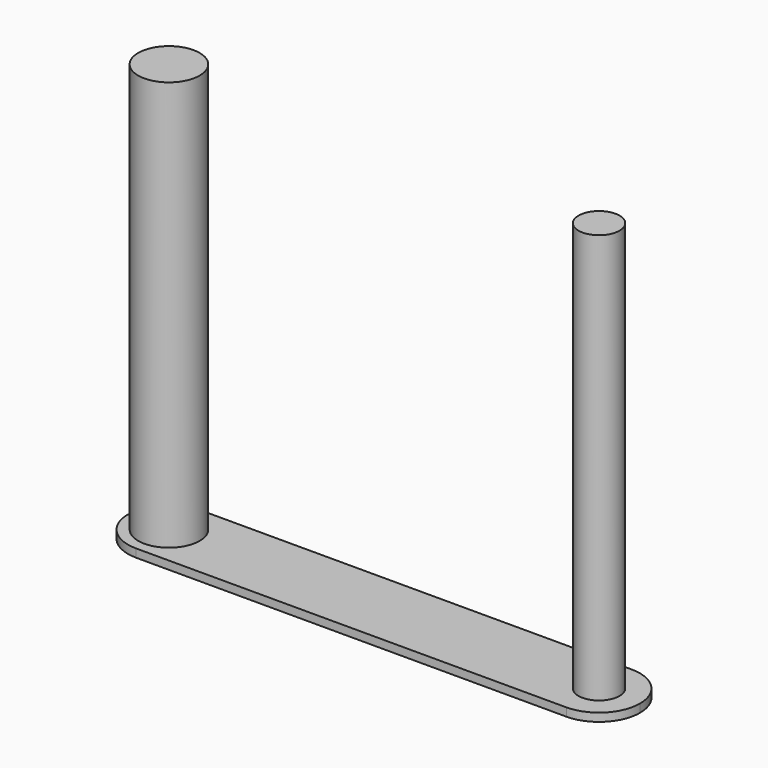
from build123d import *

# Parameters (mm, degrees)
F1_DEPTH = 0.8
F2_R     = 3
F2_R_2   = 2
F3_DEPTH = 40


with BuildPart() as f1:
    # F0 (on Top) → F1 (new body)
    with BuildSketch(Plane.XY):
        with BuildLine():
            Line((27.634616, 3.096154), (-14.365384, 3.096154))
            ThreePointArc((-14.365384, 3.096154), (-17.193811, 1.924581), (-18.365384, -0.903846))
            ThreePointArc((-18.365384, -0.903846), (-17.193811, -3.732273), (-14.365384, -4.903846))
            Line((-14.365384, -4.903846), (27.634616, -4.903846))
            ThreePointArc((27.634616, -4.903846), (30.463044, -3.732273), (31.634616, -0.903846))
            ThreePointArc((31.634616, -0.903846), (30.463044, 1.924581), (27.634616, 3.096154))
        make_face()
    extrude(amount=F1_DEPTH)

    # F2 (on face) → F3 (join)
    with BuildSketch(Plane.XY.offset(0.8)):
        with Locations((-14.365384, -0.903846)):
            Circle(F2_R)
        with Locations((27.634616, -0.903846)):
            Circle(F2_R_2)
    extrude(amount=F3_DEPTH)


solid = f1.part
